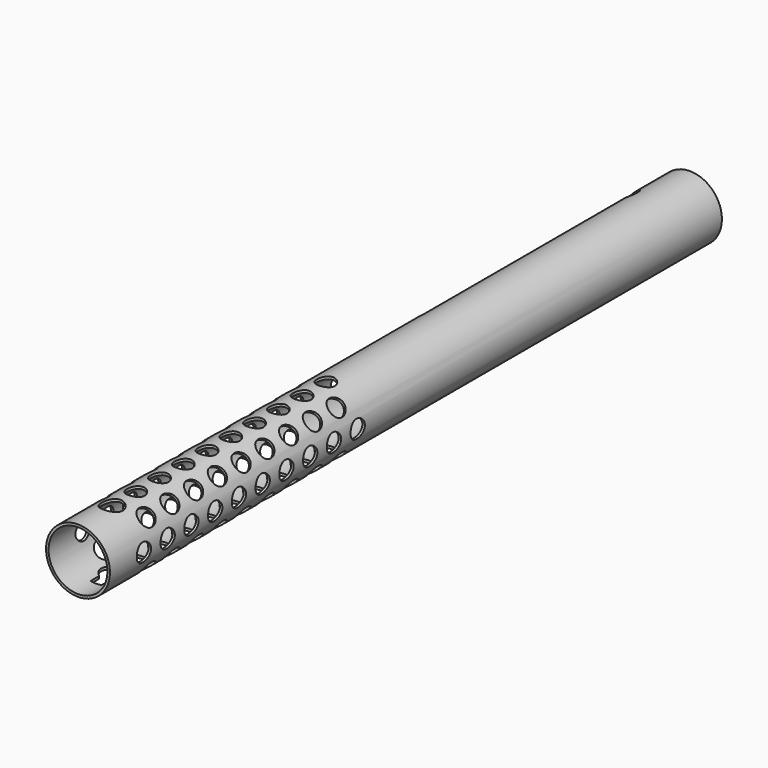
from build123d import *

# Parameters (mm, degrees)
F0_R           = 19.05
F0_R_2         = 17.55
F1_DEPTH       = 456
F2_R           = 5.35
F3_DEPTH       = 19.051
F3_DEPTH_BACK  = 19.051
F4_R           = 5.35
F4_R_2         = 6.35
F5_DEPTH       = 19.0510001
F5_DEPTH_BACK  = 19.0510001
F8_R           = 5.35
F9_DEPTH       = 26.9417685046
F9_DEPTH_BACK  = 26.9417685046
F10_R          = 5.35
F11_DEPTH      = 26.9417685046
F11_DEPTH_BACK = 26.9417685046
F13_DEPTH      = 19.0510001
F15_DEPTH      = 19.0510001
F18_DEPTH      = 25


with BuildPart() as f1:
    # F0 (on Front) → F1 (new body)
    with BuildSketch(Plane.XZ):
        Circle(F0_R)
        Circle(F0_R_2, mode=Mode.SUBTRACT)
    extrude(amount=-F1_DEPTH)

    # F2 (on Right) → F3 (cut, two sides)
    with BuildSketch(Plane.YZ) as f3_sk:
        with Locations((184.65, 0)):
            Circle(F2_R)
        with Locations((166.95, 0)):
            Circle(F2_R)
        with Locations((149.25, 0)):
            Circle(F2_R)
        with Locations((131.55, 0)):
            Circle(F2_R)
        with Locations((113.85, 0)):
            Circle(F2_R)
        with Locations((96.15, 0)):
            Circle(F2_R)
        with Locations((78.45, 0)):
            Circle(F2_R)
        with Locations((60.75, 0)):
            Circle(F2_R)
        with Locations((43.05, 0)):
            Circle(F2_R)
        with Locations((25.35, 0)):
            Circle(F2_R)
    extrude(amount=-F3_DEPTH, mode=Mode.SUBTRACT)
    extrude(f3_sk.sketch, amount=F3_DEPTH_BACK, mode=Mode.SUBTRACT)

    # F4 (on Top) → F5 (cut, two sides)
    with BuildSketch(Plane.XY) as f5_sk:
        with Locations((0, 184.65)):
            Circle(F4_R)
        with Locations((0, 166.95)):
            Circle(F4_R)
        with Locations((0, 149.25)):
            Circle(F4_R)
        with Locations((0, 131.55)):
            Circle(F4_R)
        with Locations((0, 113.85)):
            Circle(F4_R)
        with Locations((0, 96.15)):
            Circle(F4_R)
        with Locations((0, 78.45)):
            Circle(F4_R)
        with Locations((0, 60.75)):
            Circle(F4_R)
        with Locations((0, 43.05)):
            Circle(F4_R)
        with Locations((0, 25.35)):
            Circle(F4_R_2)
    extrude(amount=-F5_DEPTH, mode=Mode.SUBTRACT)
    extrude(f5_sk.sketch, amount=F5_DEPTH_BACK, mode=Mode.SUBTRACT)

    # F8 (on face) → F9 (cut, two sides)
    with BuildSketch(Plane(origin=(0, 0, 0), x_dir=(0.7071067812, 0, 0.7071067812), z_dir=(0.7071067812, 0, -0.7071067812))) as f9_sk:
        with Locations((0, -175.8)):
            Circle(F8_R)
        with Locations((0, -158.1)):
            Circle(F8_R)
        with Locations((0, -140.4)):
            Circle(F8_R)
        with Locations((0, -122.7)):
            Circle(F8_R)
        with Locations((0, -105)):
            Circle(F8_R)
        with Locations((0, -87.3)):
            Circle(F8_R)
        with Locations((0, -69.6)):
            Circle(F8_R)
        with Locations((0, -51.9)):
            Circle(F8_R)
        with Locations((0, -34.2)):
            Circle(F8_R)
    extrude(amount=-F9_DEPTH, mode=Mode.SUBTRACT)
    extrude(f9_sk.sketch, amount=F9_DEPTH_BACK, mode=Mode.SUBTRACT)

    # F10 (on face) → F11 (cut, two sides)
    with BuildSketch(Plane(origin=(0, 0, 0), x_dir=(0, -1, 0), z_dir=(-0.7071067812, 0, -0.7071067812))) as f11_sk:
        with Locations((-175.8, 0)):
            Circle(F10_R)
        with Locations((-158.1, 0)):
            Circle(F10_R)
        with Locations((-140.4, 0)):
            Circle(F10_R)
        with Locations((-122.7, 0)):
            Circle(F10_R)
        with Locations((-105, 0)):
            Circle(F10_R)
        with Locations((-87.3, 0)):
            Circle(F10_R)
        with Locations((-69.6, 0)):
            Circle(F10_R)
        with Locations((-51.9, 0)):
            Circle(F10_R)
        with Locations((-34.2, 0)):
            Circle(F10_R)
    extrude(amount=-F11_DEPTH, mode=Mode.SUBTRACT)
    extrude(f11_sk.sketch, amount=F11_DEPTH_BACK, mode=Mode.SUBTRACT)

    # F12 (on Top) → F13 (cut, through all)
    with BuildSketch(Plane.XY):
        with BuildLine():
            ThreePointArc((3.3, 19.9248271917), (5.5352280892, 22.2381275733), (6.35, 25.35))
            ThreePointArc((6.35, 25.35), (-3.1118724267, 30.8852280892), (-3.3, 19.9248271917))
            Line((-3.3, 19.9248271917), (3.3, 19.9248271917))
        make_face()
        with BuildLine():
            Line((3.3, 19.9248271917), (-3.3, 19.9248271917))
            ThreePointArc((-3.3, 19.9248271917), (0, 19), (3.3, 19.9248271917))
        make_face()
        with BuildLine():
            ThreePointArc((3.3, 19.9248271917), (0, 19), (-3.3, 19.9248271917))
            Line((-3.3, 19.9248271917), (-3.3, 13.4248271917))
            Line((-3.3, 13.4248271917), (3.3, 13.4248271917))
            Line((3.3, 13.4248271917), (3.3, 19.9248271917))
        make_face()
    extrude(amount=-F13_DEPTH, mode=Mode.SUBTRACT)

    # F14 (on Right) → F15 (cut, through all)
    with BuildSketch(Plane.YZ):
        with BuildLine():
            Line((258.3616959114, 10.1977611751), (220.518099363, 10.1977611751))
            ThreePointArc((220.518099363, 10.1977611751), (210.3203381879, 0), (220.518099363, -10.1977611751))
            Line((220.518099363, -10.1977611751), (266, -10.1977611751))
            ThreePointArc((266, -10.1977611751), (269.5480433327, -8.0447556281), (269.2766081772, -3.9034554297))
            Line((269.2766081772, -3.9034554297), (260, 9.3449140478))
            ThreePointArc((260, 9.3449140478), (259.2851931379, 9.9717828415), (258.3616959114, 10.1977611751))
        make_face()
    extrude(amount=-F15_DEPTH, mode=Mode.SUBTRACT)

    # F17 (on face) → F18 (cut)
    with BuildSketch(Plane(origin=(0, 0, 0), x_dir=(0.7660444431, 0, 0.6427876097), z_dir=(0.6427876097, 0, -0.7660444431))):
        with BuildLine():
            ThreePointArc((-2.5, -420.8775006101), (-3.0199337741, -430.8342527861), (5.7, -426))
            ThreePointArc((5.7, -426), (4.8342527861, -422.9800662259), (2.5, -420.8775006101))
            Line((2.5, -420.8775006101), (2.5, -426))
            Line((2.5, -426), (-2.5, -426))
            Line((-2.5, -426), (-2.5, -420.8775006101))
        make_face()
        with BuildLine():
            Line((2.5, -426), (2.5, -420.8775006101))
            ThreePointArc((2.5, -420.8775006101), (0, -420.3), (-2.5, -420.8775006101))
            Line((-2.5, -420.8775006101), (-2.5, -426))
            Line((-2.5, -426), (2.5, -426))
        make_face()
        with BuildLine():
            ThreePointArc((-2.5, -420.8775006101), (0, -420.3), (2.5, -420.8775006101))
            Line((2.5, -420.8775006101), (2.5, -271.2))
            ThreePointArc((2.5, -271.2), (1.767766953, -269.432233047), (0, -268.7))
            ThreePointArc((0, -268.7), (-1.767766953, -269.432233047), (-2.5, -271.2))
            Line((-2.5, -271.2), (-2.5, -420.8775006101))
        make_face()
    extrude(amount=-F18_DEPTH, mode=Mode.SUBTRACT)


solid = f1.part
